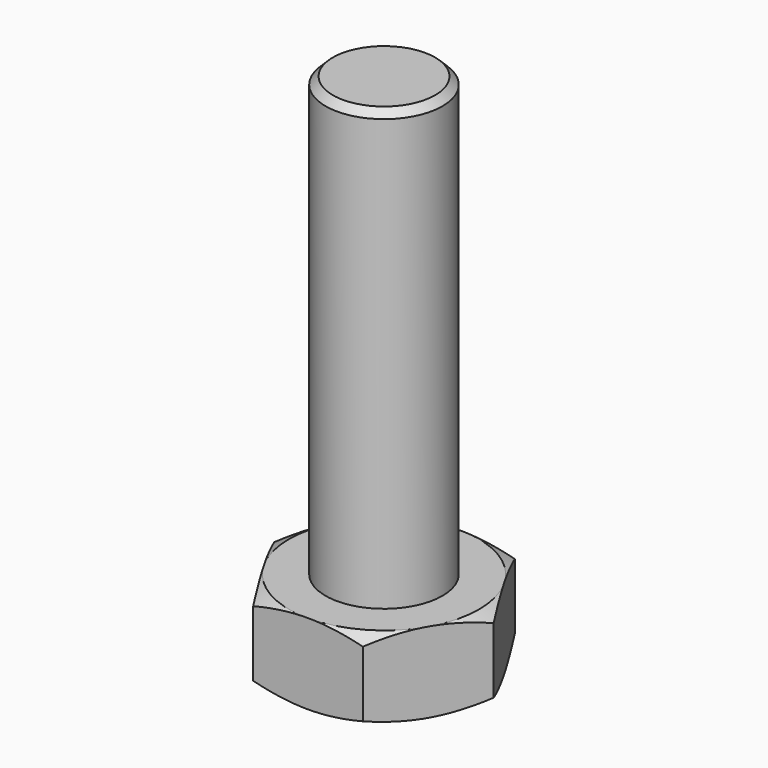
from build123d import *

# Parameters (mm, degrees)
PAD008_DEPTH = 5.5
SKETCH029_R  = 4
PAD009_DEPTH = 30


with BuildPart() as part:
    # Sketch028 → Pad008 (new body)
    with BuildSketch(Plane.XY):
        Polygon((7.5055534995, 0), (3.7527767497, 6.5), (-3.7527767497, 6.5), (-7.5055534995, 0), (-3.7527767497, -6.5), (3.7527767497, -6.5), align=None)
    extrude(amount=PAD008_DEPTH)

    # Sketch029 (on Face8 of Pad008) → Pad009 (join)
    with BuildSketch(Plane.XY.offset(5.5)):
        Circle(SKETCH029_R)
    extrude(amount=PAD009_DEPTH)

    # Sketch030 → Groove001 (revolve, cut)
    with BuildSketch(Plane.XZ):
        Polygon((4, 35.5), (3.5, 35.5), (4, 35), align=None)
        Polygon((7.5055534995, 5.5), (6.5055534995, 5.5), (7.5055534995, 5), align=None)
        Polygon((7.5055534995, 0), (6.5055534995, 0), (7.5055534995, 0.5), align=None)
    revolve(axis=Axis((0, 0, 0), (0, 0, 1)), mode=Mode.SUBTRACT)


solid = part.part
